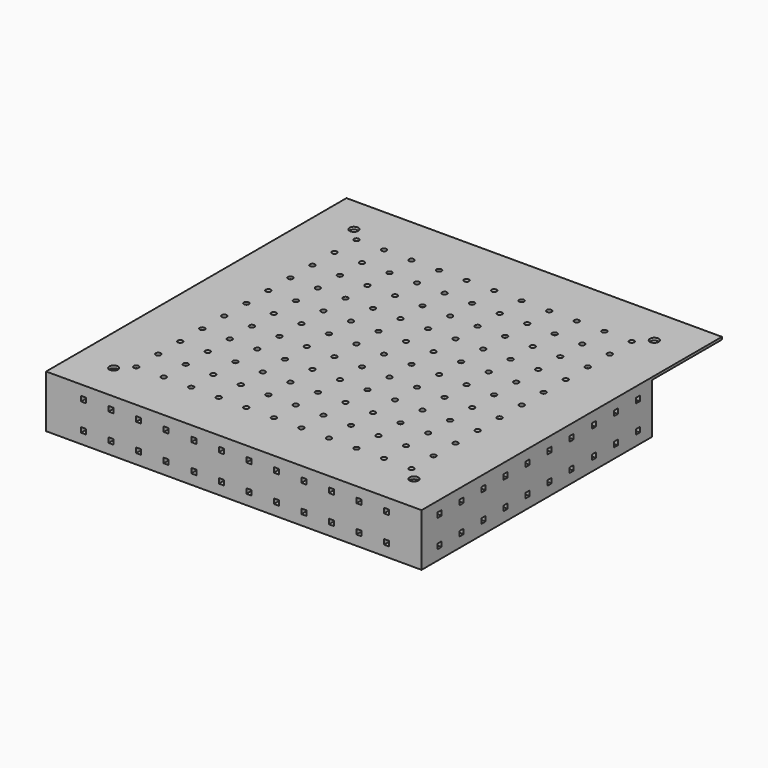
from build123d import *

# Parameters (mm, degrees)
F0_R     = 1.75
F0_R_2   = 1
F0_W     = 3
F0_H     = 40
F1_DEPTH = 1
F2_DEPTH = 20
F3_W     = 2
F3_H     = 2
F4_DEPTH = 200
F5_W     = 2
F5_H     = 2
F6_DEPTH = 25


with BuildPart() as f1:
    # F0 (on Top) → F1 (new body)
    with BuildSketch(Plane.XY):
        Polygon((72, -72), (72, 0), (72, 40), (72, 72), (-72, 72), (-72, 40), (-72, 0), (-72, -72), align=None)
        with Locations((-60, -60)):
            Circle(F0_R, mode=Mode.SUBTRACT)
        with Locations((-55, -55)):
            Circle(F0_R_2, mode=Mode.SUBTRACT)
        with Locations((-44, -55)):
            Circle(F0_R_2, mode=Mode.SUBTRACT)
        with Locations((-55, -44)):
            Circle(F0_R_2, mode=Mode.SUBTRACT)
        with Locations((-44, -44)):
            Circle(F0_R_2, mode=Mode.SUBTRACT)
        with Locations((-33, -55)):
            Circle(F0_R_2, mode=Mode.SUBTRACT)
        with Locations((-22, -55)):
            Circle(F0_R_2, mode=Mode.SUBTRACT)
        with Locations((-33, -44)):
            Circle(F0_R_2, mode=Mode.SUBTRACT)
        with Locations((-22, -44)):
            Circle(F0_R_2, mode=Mode.SUBTRACT)
        with Locations((-11, -55)):
            Circle(F0_R_2, mode=Mode.SUBTRACT)
        with Locations((-11, -44)):
            Circle(F0_R_2, mode=Mode.SUBTRACT)
        with Locations((-55, -33)):
            Circle(F0_R_2, mode=Mode.SUBTRACT)
        with Locations((-44, -33)):
            Circle(F0_R_2, mode=Mode.SUBTRACT)
        with Locations((-55, -22)):
            Circle(F0_R_2, mode=Mode.SUBTRACT)
        with Locations((-44, -22)):
            Circle(F0_R_2, mode=Mode.SUBTRACT)
        with Locations((-55, -11)):
            Circle(F0_R_2, mode=Mode.SUBTRACT)
        with Locations((-44, -11)):
            Circle(F0_R_2, mode=Mode.SUBTRACT)
        with Locations((-33, -33)):
            Circle(F0_R_2, mode=Mode.SUBTRACT)
        with Locations((-22, -33)):
            Circle(F0_R_2, mode=Mode.SUBTRACT)
        with Locations((-33, -22)):
            Circle(F0_R_2, mode=Mode.SUBTRACT)
        with Locations((-22, -22)):
            Circle(F0_R_2, mode=Mode.SUBTRACT)
        with Locations((-11, -33)):
            Circle(F0_R_2, mode=Mode.SUBTRACT)
        with Locations((-11, -22)):
            Circle(F0_R_2, mode=Mode.SUBTRACT)
        with Locations((-33, -11)):
            Circle(F0_R_2, mode=Mode.SUBTRACT)
        with Locations((-22, -11)):
            Circle(F0_R_2, mode=Mode.SUBTRACT)
        with Locations((-11, -11)):
            Circle(F0_R_2, mode=Mode.SUBTRACT)
        with Locations((0, -55)):
            Circle(F0_R_2, mode=Mode.SUBTRACT)
        with Locations((11, -55)):
            Circle(F0_R_2, mode=Mode.SUBTRACT)
        with Locations((0, -44)):
            Circle(F0_R_2, mode=Mode.SUBTRACT)
        with Locations((11, -44)):
            Circle(F0_R_2, mode=Mode.SUBTRACT)
        with Locations((22, -55)):
            Circle(F0_R_2, mode=Mode.SUBTRACT)
        with Locations((33, -55)):
            Circle(F0_R_2, mode=Mode.SUBTRACT)
        with Locations((22, -44)):
            Circle(F0_R_2, mode=Mode.SUBTRACT)
        with Locations((33, -44)):
            Circle(F0_R_2, mode=Mode.SUBTRACT)
        with Locations((60, -60)):
            Circle(F0_R, mode=Mode.SUBTRACT)
        with Locations((44, -55)):
            Circle(F0_R_2, mode=Mode.SUBTRACT)
        with Locations((55, -55)):
            Circle(F0_R_2, mode=Mode.SUBTRACT)
        with Locations((44, -44)):
            Circle(F0_R_2, mode=Mode.SUBTRACT)
        with Locations((55, -44)):
            Circle(F0_R_2, mode=Mode.SUBTRACT)
        with Locations((0, -33)):
            Circle(F0_R_2, mode=Mode.SUBTRACT)
        with Locations((11, -33)):
            Circle(F0_R_2, mode=Mode.SUBTRACT)
        with Locations((0, -22)):
            Circle(F0_R_2, mode=Mode.SUBTRACT)
        with Locations((11, -22)):
            Circle(F0_R_2, mode=Mode.SUBTRACT)
        with Locations((22, -33)):
            Circle(F0_R_2, mode=Mode.SUBTRACT)
        with Locations((33, -33)):
            Circle(F0_R_2, mode=Mode.SUBTRACT)
        with Locations((22, -22)):
            Circle(F0_R_2, mode=Mode.SUBTRACT)
        with Locations((33, -22)):
            Circle(F0_R_2, mode=Mode.SUBTRACT)
        with Locations((0, -11)):
            Circle(F0_R_2, mode=Mode.SUBTRACT)
        with Locations((11, -11)):
            Circle(F0_R_2, mode=Mode.SUBTRACT)
        with Locations((22, -11)):
            Circle(F0_R_2, mode=Mode.SUBTRACT)
        with Locations((33, -11)):
            Circle(F0_R_2, mode=Mode.SUBTRACT)
        with Locations((44, -33)):
            Circle(F0_R_2, mode=Mode.SUBTRACT)
        with Locations((55, -33)):
            Circle(F0_R_2, mode=Mode.SUBTRACT)
        with Locations((44, -22)):
            Circle(F0_R_2, mode=Mode.SUBTRACT)
        with Locations((55, -22)):
            Circle(F0_R_2, mode=Mode.SUBTRACT)
        with Locations((44, -11)):
            Circle(F0_R_2, mode=Mode.SUBTRACT)
        with Locations((55, -11)):
            Circle(F0_R_2, mode=Mode.SUBTRACT)
        with Locations((-55, 0)):
            Circle(F0_R_2, mode=Mode.SUBTRACT)
        with Locations((-44, 0)):
            Circle(F0_R_2, mode=Mode.SUBTRACT)
        with Locations((-55, 11)):
            Circle(F0_R_2, mode=Mode.SUBTRACT)
        with Locations((-44, 11)):
            Circle(F0_R_2, mode=Mode.SUBTRACT)
        with Locations((-55, 22)):
            Circle(F0_R_2, mode=Mode.SUBTRACT)
        with Locations((-44, 22)):
            Circle(F0_R_2, mode=Mode.SUBTRACT)
        with Locations((-55, 33)):
            Circle(F0_R_2, mode=Mode.SUBTRACT)
        with Locations((-44, 33)):
            Circle(F0_R_2, mode=Mode.SUBTRACT)
        with Locations((-33, 0)):
            Circle(F0_R_2, mode=Mode.SUBTRACT)
        with Locations((-22, 0)):
            Circle(F0_R_2, mode=Mode.SUBTRACT)
        with Locations((-33, 11)):
            Circle(F0_R_2, mode=Mode.SUBTRACT)
        with Locations((-22, 11)):
            Circle(F0_R_2, mode=Mode.SUBTRACT)
        with Locations((-11, 0)):
            Circle(F0_R_2, mode=Mode.SUBTRACT)
        with Locations((-11, 11)):
            Circle(F0_R_2, mode=Mode.SUBTRACT)
        with Locations((-33, 22)):
            Circle(F0_R_2, mode=Mode.SUBTRACT)
        with Locations((-22, 22)):
            Circle(F0_R_2, mode=Mode.SUBTRACT)
        with Locations((-33, 33)):
            Circle(F0_R_2, mode=Mode.SUBTRACT)
        with Locations((-22, 33)):
            Circle(F0_R_2, mode=Mode.SUBTRACT)
        with Locations((-11, 22)):
            Circle(F0_R_2, mode=Mode.SUBTRACT)
        with Locations((-11, 33)):
            Circle(F0_R_2, mode=Mode.SUBTRACT)
        with Locations((-55, 44)):
            Circle(F0_R_2, mode=Mode.SUBTRACT)
        with Locations((-44, 44)):
            Circle(F0_R_2, mode=Mode.SUBTRACT)
        with Locations((-55, 55)):
            Circle(F0_R_2, mode=Mode.SUBTRACT)
        with Locations((-44, 55)):
            Circle(F0_R_2, mode=Mode.SUBTRACT)
        with Locations((-60, 60)):
            Circle(F0_R, mode=Mode.SUBTRACT)
        with Locations((-33, 44)):
            Circle(F0_R_2, mode=Mode.SUBTRACT)
        with Locations((-22, 44)):
            Circle(F0_R_2, mode=Mode.SUBTRACT)
        with Locations((-33, 55)):
            Circle(F0_R_2, mode=Mode.SUBTRACT)
        with Locations((-22, 55)):
            Circle(F0_R_2, mode=Mode.SUBTRACT)
        with Locations((-11, 44)):
            Circle(F0_R_2, mode=Mode.SUBTRACT)
        with Locations((-11, 55)):
            Circle(F0_R_2, mode=Mode.SUBTRACT)
        Circle(F0_R_2, mode=Mode.SUBTRACT)
        with Locations((11, 0)):
            Circle(F0_R_2, mode=Mode.SUBTRACT)
        with Locations((0, 11)):
            Circle(F0_R_2, mode=Mode.SUBTRACT)
        with Locations((11, 11)):
            Circle(F0_R_2, mode=Mode.SUBTRACT)
        with Locations((22, 0)):
            Circle(F0_R_2, mode=Mode.SUBTRACT)
        with Locations((33, 0)):
            Circle(F0_R_2, mode=Mode.SUBTRACT)
        with Locations((22, 11)):
            Circle(F0_R_2, mode=Mode.SUBTRACT)
        with Locations((33, 11)):
            Circle(F0_R_2, mode=Mode.SUBTRACT)
        with Locations((0, 22)):
            Circle(F0_R_2, mode=Mode.SUBTRACT)
        with Locations((11, 22)):
            Circle(F0_R_2, mode=Mode.SUBTRACT)
        with Locations((0, 33)):
            Circle(F0_R_2, mode=Mode.SUBTRACT)
        with Locations((11, 33)):
            Circle(F0_R_2, mode=Mode.SUBTRACT)
        with Locations((22, 22)):
            Circle(F0_R_2, mode=Mode.SUBTRACT)
        with Locations((33, 22)):
            Circle(F0_R_2, mode=Mode.SUBTRACT)
        with Locations((22, 33)):
            Circle(F0_R_2, mode=Mode.SUBTRACT)
        with Locations((33, 33)):
            Circle(F0_R_2, mode=Mode.SUBTRACT)
        with Locations((44, 0)):
            Circle(F0_R_2, mode=Mode.SUBTRACT)
        with Locations((55, 0)):
            Circle(F0_R_2, mode=Mode.SUBTRACT)
        with Locations((44, 11)):
            Circle(F0_R_2, mode=Mode.SUBTRACT)
        with Locations((55, 11)):
            Circle(F0_R_2, mode=Mode.SUBTRACT)
        with Locations((44, 22)):
            Circle(F0_R_2, mode=Mode.SUBTRACT)
        with Locations((55, 22)):
            Circle(F0_R_2, mode=Mode.SUBTRACT)
        with Locations((44, 33)):
            Circle(F0_R_2, mode=Mode.SUBTRACT)
        with Locations((55, 33)):
            Circle(F0_R_2, mode=Mode.SUBTRACT)
        with Locations((0, 44)):
            Circle(F0_R_2, mode=Mode.SUBTRACT)
        with Locations((11, 44)):
            Circle(F0_R_2, mode=Mode.SUBTRACT)
        with Locations((0, 55)):
            Circle(F0_R_2, mode=Mode.SUBTRACT)
        with Locations((11, 55)):
            Circle(F0_R_2, mode=Mode.SUBTRACT)
        with Locations((22, 44)):
            Circle(F0_R_2, mode=Mode.SUBTRACT)
        with Locations((33, 44)):
            Circle(F0_R_2, mode=Mode.SUBTRACT)
        with Locations((22, 55)):
            Circle(F0_R_2, mode=Mode.SUBTRACT)
        with Locations((33, 55)):
            Circle(F0_R_2, mode=Mode.SUBTRACT)
        with Locations((44, 44)):
            Circle(F0_R_2, mode=Mode.SUBTRACT)
        with Locations((55, 44)):
            Circle(F0_R_2, mode=Mode.SUBTRACT)
        with Locations((44, 55)):
            Circle(F0_R_2, mode=Mode.SUBTRACT)
        with Locations((55, 55)):
            Circle(F0_R_2, mode=Mode.SUBTRACT)
        with Locations((60, 60)):
            Circle(F0_R, mode=Mode.SUBTRACT)
        Polygon((72, 40), (75, 40), (75, 75), (-75, 75), (-75, 40), (-72, 40), (-72, 72), (72, 72), align=None)
        Polygon((-75, -75), (75, -75), (75, 0), (72, 0), (72, -72), (-72, -72), (-72, 0), (-75, 0), align=None)
        with Locations((-73.5, 20)):
            Rectangle(F0_W, F0_H)
        with Locations((73.5, 20)):
            Rectangle(F0_W, F0_H)
    extrude(amount=F1_DEPTH)

    # F0 (on Top) → F2 (join)
    with BuildSketch(Plane.XY):
        Polygon((-75, -75), (75, -75), (75, 0), (72, 0), (72, -72), (-72, -72), (-72, 0), (-75, 0), align=None)
        with Locations((73.5, 20)):
            Rectangle(F0_W, F0_H)
        with Locations((-73.5, 20)):
            Rectangle(F0_W, F0_H)
    extrude(amount=-F2_DEPTH)

    # F3 (on face) → F4 (cut)
    with BuildSketch(Plane(origin=(-75, 0, 0), x_dir=(0, -1, 0), z_dir=(-1, 0, 0))):
        with Locations((-33, -4)):
            Rectangle(F3_W, F3_H)
        with Locations((-33, -15)):
            Rectangle(F3_W, F3_H)
        with Locations((-22, -4)):
            Rectangle(F3_W, F3_H)
        with Locations((-11, -4)):
            Rectangle(F3_W, F3_H)
        with Locations((-11, -15)):
            Rectangle(F3_W, F3_H)
        with Locations((-22, -15)):
            Rectangle(F3_W, F3_H)
        with Locations((0, -15)):
            Rectangle(F3_W, F3_H)
        with Locations((11, -15)):
            Rectangle(F3_W, F3_H)
        with Locations((22, -15)):
            Rectangle(F3_W, F3_H)
        with Locations((33, -15)):
            Rectangle(F3_W, F3_H)
        with Locations((44, -15)):
            Rectangle(F3_W, F3_H)
        with Locations((55, -15)):
            Rectangle(F3_W, F3_H)
        with Locations((66, -15)):
            Rectangle(F3_W, F3_H)
        with Locations((66, -4)):
            Rectangle(F3_W, F3_H)
        with Locations((55, -4)):
            Rectangle(F3_W, F3_H)
        with Locations((44, -4)):
            Rectangle(F3_W, F3_H)
        with Locations((33, -4)):
            Rectangle(F3_W, F3_H)
        with Locations((22, -4)):
            Rectangle(F3_W, F3_H)
        with Locations((11, -4)):
            Rectangle(F3_W, F3_H)
        with Locations((0, -4)):
            Rectangle(F3_W, F3_H)
    extrude(amount=-F4_DEPTH, mode=Mode.SUBTRACT)

    # F5 (on face) → F6 (cut)
    with BuildSketch(Plane.XZ.offset(75)):
        with Locations((-60, -4)):
            Rectangle(F5_W, F5_H)
        with Locations((-60, -15)):
            Rectangle(F5_W, F5_H)
        with Locations((-49, -4)):
            Rectangle(F5_W, F5_H)
        with Locations((-49, -15)):
            Rectangle(F5_W, F5_H)
        with Locations((-38, -4)):
            Rectangle(F5_W, F5_H)
        with Locations((-38, -15)):
            Rectangle(F5_W, F5_H)
        with Locations((-27, -4)):
            Rectangle(F5_W, F5_H)
        with Locations((-16, -4)):
            Rectangle(F5_W, F5_H)
        with Locations((-5, -4)):
            Rectangle(F5_W, F5_H)
        with Locations((6, -4)):
            Rectangle(F5_W, F5_H)
        with Locations((17, -4)):
            Rectangle(F5_W, F5_H)
        with Locations((28, -4)):
            Rectangle(F5_W, F5_H)
        with Locations((39, -4)):
            Rectangle(F5_W, F5_H)
        with Locations((50, -4)):
            Rectangle(F5_W, F5_H)
        with Locations((61, -4)):
            Rectangle(F5_W, F5_H)
        with Locations((61, -15)):
            Rectangle(F5_W, F5_H)
        with Locations((50, -15)):
            Rectangle(F5_W, F5_H)
        with Locations((39, -15)):
            Rectangle(F5_W, F5_H)
        with Locations((28, -15)):
            Rectangle(F5_W, F5_H)
        with Locations((17, -15)):
            Rectangle(F5_W, F5_H)
        with Locations((6, -15)):
            Rectangle(F5_W, F5_H)
        with Locations((-5, -15)):
            Rectangle(F5_W, F5_H)
        with Locations((-16, -15)):
            Rectangle(F5_W, F5_H)
        with Locations((-27, -15)):
            Rectangle(F5_W, F5_H)
    extrude(amount=-F6_DEPTH, mode=Mode.SUBTRACT)


solid = f1.part
